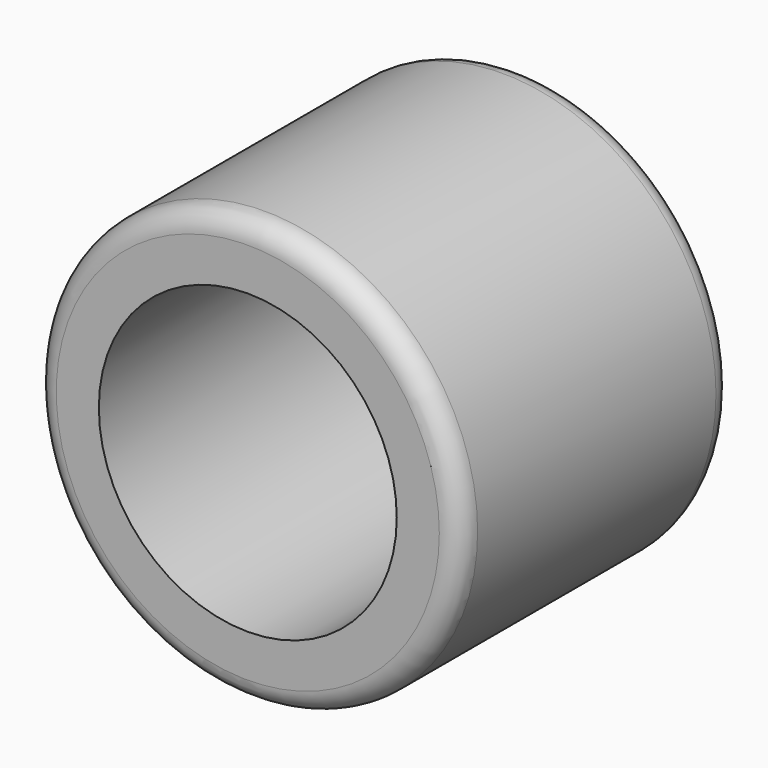
from build123d import *

# Parameters (mm, degrees)
F0_R     = 7.9375
F0_R_2   = 5.55625
F1_DEPTH = 12.7
F2_R     = 0.79375


with BuildPart() as f1:
    # F0 (on Front) → F1 (new body)
    with BuildSketch(Plane.XZ):
        Circle(F0_R)
        Circle(F0_R_2, mode=Mode.SUBTRACT)
    extrude(amount=-F1_DEPTH)

    # F2
    f2_edges = [f1.edges().sort_by_distance(p)[0] for p in [
        (-7.9375, 0, 0),
        (-7.9375, 12.7, 0),
    ]]
    fillet(f2_edges, radius=F2_R)


solid = f1.part
